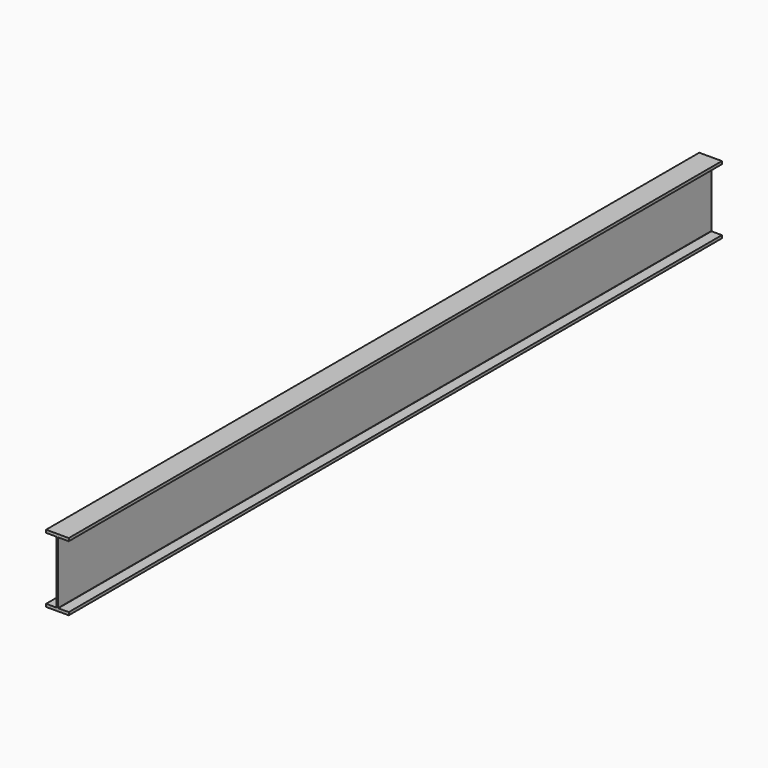
from build123d import *

# Parameters (mm, degrees)
F1_DEPTH = 7315.2


with BuildPart() as f1:
    # F0 (on Front) → F1 (new body)
    with BuildSketch(Plane.XZ):
        with BuildLine():
            Line((101.6, -304.8), (101.6, -279.4))
            Line((101.6, -279.4), (8.89, -279.4))
            ThreePointArc((8.89, -279.4), (7.093949, -278.656051), (6.35, -276.86))
            Line((6.35, -276.86), (6.35, 276.86))
            ThreePointArc((6.35, 276.86), (7.093949, 278.656051), (8.89, 279.4))
            Line((8.89, 279.4), (101.6, 279.4))
            Line((101.6, 279.4), (101.6, 304.8))
            Line((101.6, 304.8), (-101.6, 304.8))
            Line((-101.6, 304.8), (-101.6, 279.4))
            Line((-101.6, 279.4), (-8.89, 279.4))
            ThreePointArc((-8.89, 279.4), (-7.093949, 278.656051), (-6.35, 276.86))
            Line((-6.35, 276.86), (-6.35, -276.86))
            ThreePointArc((-6.35, -276.86), (-7.093949, -278.656051), (-8.89, -279.4))
            Line((-8.89, -279.4), (-101.6, -279.4))
            Line((-101.6, -279.4), (-101.6, -304.8))
            Line((-101.6, -304.8), (101.6, -304.8))
        make_face()
    extrude(amount=F1_DEPTH)


solid = f1.part
